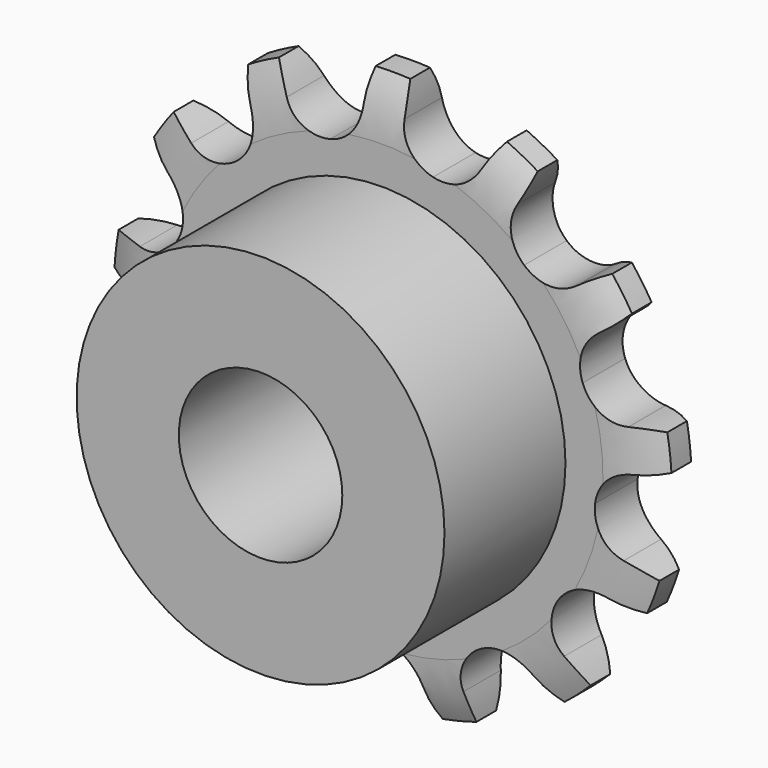
from build123d import *

# Parameters (mm, degrees)
PAD_DEPTH          = 2.6
POLARPATTERN_COUNT = 13
SKETCH002_R        = 9
PAD001_DEPTH       = 10
SKETCH003_R        = 4
POCKET_DEPTH       = 0.001
POCKET_DEPTH_BACK  = -10.001


with BuildPart() as part:
    # Sketch → Pad (new body)
    with BuildSketch(Plane.XZ):
        with BuildLine():
            ThreePointArc((-2.520958, 10.21863), (-1.425503, 10.927141), (-1, 12.160412))
            ThreePointArc((-0.849773, 13.623523), (-0.962345, 12.895814), (-1, 12.160412))
            ThreePointArc((0.849773, 13.623523), (0, 13.65), (-0.849773, 13.623523))
            ThreePointArc((1, 12.160412), (0.962345, 12.895814), (0.849773, 13.623523))
            ThreePointArc((1, 12.160412), (1.425503, 10.927141), (2.520958, 10.21863))
            Line((2.520958, 10.21863), (2.520958, 0))
            Line((-2.520958, 0), (2.520958, 0))
            Line((-2.520958, 10.21863), (-2.520958, 0))
        make_face()
    pad = extrude(amount=PAD_DEPTH)

    # PolarPattern: Pad ×13 about axis
    polarpattern_axis = Axis((0, 0, 0), (0, 1, 0))
    for i in range(1, POLARPATTERN_COUNT):
        add(pad.rotate(polarpattern_axis, i * 360 / POLARPATTERN_COUNT))

    # Sketch001 → Groove (revolve, cut)
    with BuildSketch(Plane.YZ):
        with BuildLine():
            ThreePointArc((-1.9, 13.65), (-2.422375, 12.28665), (-2.6, 10.837496))
            Line((-2.6, 13.65), (-2.6, 10.837496))
            Line((-1.9, 13.65), (-2.6, 13.65))
        make_face()
        with BuildLine():
            Line((-0.7, 13.65), (0, 13.65))
            Line((0, 13.65), (0, 10.837496))
            ThreePointArc((0, 10.837496), (-0.177625, 12.28665), (-0.7, 13.65))
        make_face()
    revolve(axis=Axis((0, 0, 0), (0, 1, 0)), mode=Mode.SUBTRACT)

    # Sketch002 → Pad001 (join)
    with BuildSketch(Plane.XZ):
        Circle(SKETCH002_R)
    extrude(amount=PAD001_DEPTH)

    # Sketch003 → Pocket (cut, two sides)
    with BuildSketch(Plane.XZ) as pocket_sk:
        Circle(SKETCH003_R)
    extrude(amount=-POCKET_DEPTH, mode=Mode.SUBTRACT)
    extrude(pocket_sk.sketch, amount=-POCKET_DEPTH_BACK, mode=Mode.SUBTRACT)


solid = part.part
